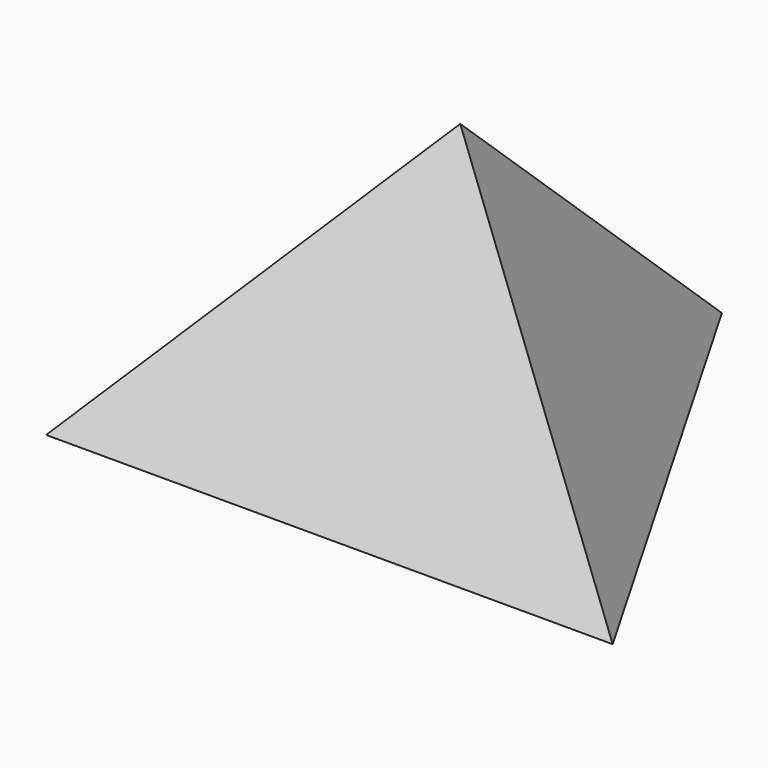
from build123d import *


with BuildPart() as f3:
    # F0 (on Top) → F3 section 0
    with BuildSketch(Plane.XY, mode=Mode.PRIVATE) as f3_s0:
        Polygon((95.953032, -55.398509), (0, 110.797018), (-95.953032, -55.398509), align=None)
    loft([f3_s0.sketch, Vertex(-1.748853, 2.186066, 100)])


solid = f3.part
